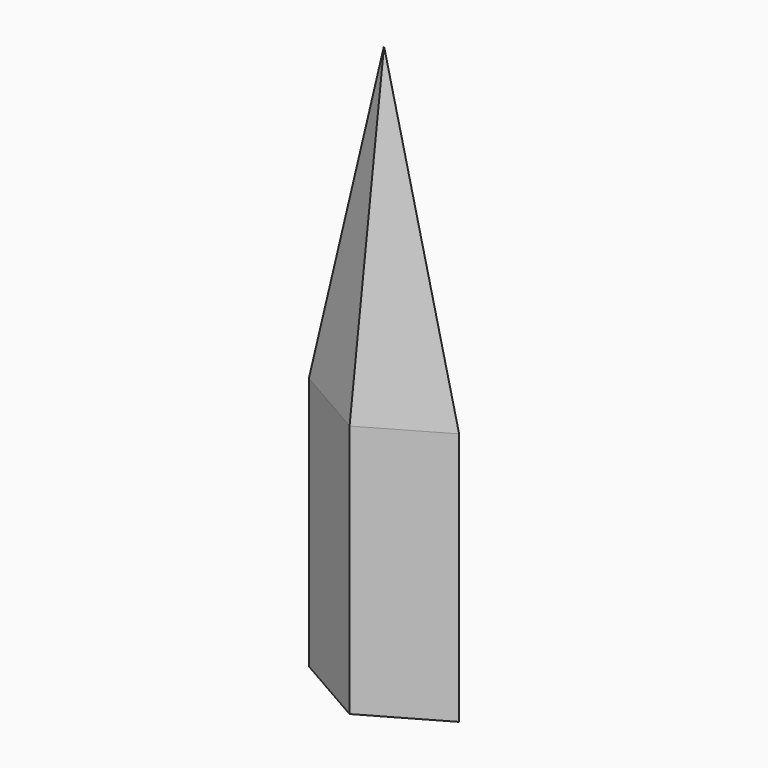
from build123d import *

# Parameters (mm, degrees)
F1_DEPTH = 50.8
F3_DEPTH = 177.8
F4_SIZE2 = 127
F4_SIZE  = 14.96059746


with BuildPart() as f1:
    # F0 (on Top) → F1 (new body)
    with BuildSketch(Plane.XY):
        Polygon((0, 17.2466), (0, 9.9280379058), (17.3265462716, 0), (30.099, 0), align=None)
        Polygon((-30.099, 0), (-17.3265462716, 0), (0, 9.9280379058), (0, 17.2466), align=None)
        Polygon((0, -9.9280379058), (-17.3265462716, 0), (-30.099, 0), (0, -17.2466), align=None)
        Polygon((30.099, 0), (17.3265462716, 0), (0, -9.9280379058), (0, -17.2466), align=None)
    extrude(amount=F1_DEPTH)

    # F2 (on face) → F3 (join)
    with BuildSketch(Plane.XY.offset(50.8)):
        Polygon((0, -17.2466), (30.099, 0), (0, 17.2466), (-30.099, 0), align=None)
        Polygon((-17.3265462716, 0), (0, 9.9280379058), (17.3265462716, 0), (0, -9.9280379058), align=None, mode=Mode.SUBTRACT)
        Polygon((17.3265462716, 0), (0, 9.9280379058), (-17.3265462716, 0), (0, -9.9280379058), align=None)
    extrude(amount=F3_DEPTH)

    # F4
    f4_edges = [f1.edges().sort_by_distance(p)[0] for p in [
        (15.0495, -8.6233, 228.6),
        (15.0495, 8.6233, 228.6),
        (-15.0495, 8.6233, 228.6),
        (-15.0495, -8.6233, 228.6),
    ]]
    f4_side = f1.faces().sort_by_distance((0, 0, 228.6))[0]
    chamfer(f4_edges, length=F4_SIZE, length2=F4_SIZE2, reference=f4_side)


solid = f1.part
